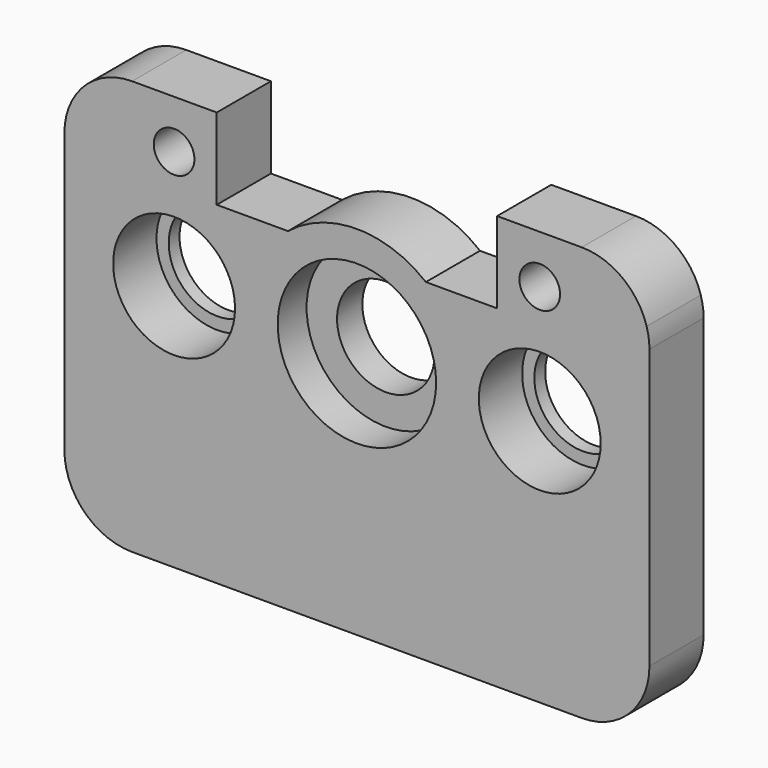
from build123d import *

# Parameters (mm, degrees)
F0_R     = 342.9
F0_R_2   = 274.32
F1_DEPTH = 76.2
F0_R_3   = 445.77
F2_DEPTH = 177.8
F0_R_4   = 114.3
F3_DEPTH = 381


with BuildPart() as f1:
    # F0 (on Front) → F1 (new body)
    with BuildSketch(Plane.XZ):
        with Locations((617.22, 1394.46)):
            Circle(F0_R)
        with Locations((617.22, 1394.46)):
            Circle(F0_R_2, mode=Mode.SUBTRACT)
        with Locations((2674.62, 1394.46)):
            Circle(F0_R)
        with Locations((2674.62, 1394.46)):
            Circle(F0_R_2, mode=Mode.SUBTRACT)
    extrude(amount=F1_DEPTH)


with BuildPart() as f2:
    # F0 (on Front) → F2 (new body)
    with BuildSketch(Plane.XZ):
        with Locations((1645.92, 1394.46)):
            Circle(F0_R_3)
        with Locations((1645.92, 1394.46)):
            Circle(F0_R_2, mode=Mode.SUBTRACT)
    extrude(amount=F2_DEPTH)


with BuildPart() as f3:
    # F0 (on Front) → F3 (new body)
    with BuildSketch(Plane.XZ):
        with BuildLine():
            Line((0, 1394.46), (0, 381))
            ThreePointArc((0, 381), (111.592316, 111.592316), (381, 0))
            Line((381, 0), (2910.84, 0))
            ThreePointArc((2910.84, 0), (3180.247684, 111.592316), (3291.84, 381))
            Line((3291.84, 381), (3291.84, 1950.72))
            ThreePointArc((3291.84, 1950.72), (3287.878586, 2005.518765), (3276.076721, 2059.178))
            ThreePointArc((3276.076721, 2059.178), (3138.697962, 2256.075119), (2910.84, 2331.72))
            Line((2910.84, 2331.72), (2674.62, 2331.72))
            Line((2674.62, 2331.72), (2434.59, 2331.72))
            Line((2434.59, 2331.72), (2434.59, 1874.52))
            Line((2434.59, 1874.52), (2033.867064, 1874.52))
            ThreePointArc((2033.867064, 1874.52), (1645.92, 2011.68), (1257.972936, 1874.52))
            Line((1257.972936, 1874.52), (857.25, 1874.52))
            Line((857.25, 1874.52), (857.25, 2331.72))
            Line((857.25, 2331.72), (617.22, 2331.72))
            Line((617.22, 2331.72), (381, 2331.72))
            ThreePointArc((381, 2331.72), (111.592316, 2220.127684), (0, 1950.72))
            Line((0, 1950.72), (0, 1394.46))
        make_face()
        with Locations((617.22, 1394.46)):
            Circle(F0_R, mode=Mode.SUBTRACT)
        with Locations((617.22, 2059.178)):
            Circle(F0_R_4, mode=Mode.SUBTRACT)
        with Locations((1645.92, 1394.46)):
            Circle(F0_R_3, mode=Mode.SUBTRACT)
        with Locations((2674.62, 1394.46)):
            Circle(F0_R, mode=Mode.SUBTRACT)
        with Locations((2674.62, 2059.178)):
            Circle(F0_R_4, mode=Mode.SUBTRACT)
    extrude(amount=F3_DEPTH)


solid = Compound([f1.part, f2.part, f3.part])
